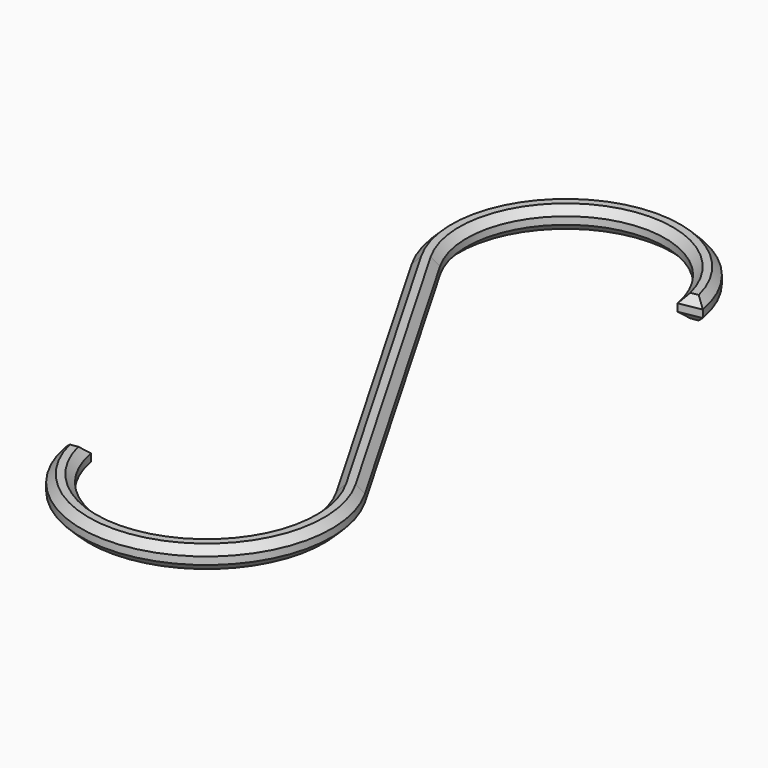
from build123d import *

# Parameters (mm, degrees)
F1_W    = 3
F1_H    = 3
F3_SIZE = 1


with BuildPart() as f2:
    # F2: sweep along a path in F0
    with BuildLine(Plane.XY) as f2_path:
        ThreePointArc((14.7721162952, 2.604722665), (-5.1303021499, 14.0953893118), (-12.9903810568, -7.5))
        Line((-12.9903810568, -7.5), (12.9903810568, -52.5))
        ThreePointArc((12.9903810568, -52.5), (5.1303021499, -74.0953893118), (-14.7721162952, -62.604722665))
    # F1 (on Front) → F2 (sweep)
    with BuildSketch(Plane.XZ):
        with Locations((-14.7721162952, 0)):
            Rectangle(F1_W, F1_H)
    sweep(path=f2_path.line)

    # F3
    f3_edges = [f2.edges().sort_by_distance(p)[0] for p in [
        (-4.539331, 12.47171, 1.5),
        (1.496391, -29.136058, 1.5),
        (5.721273, -75.719069, 1.5),
        (-14.996538, -62.644294, 1.5),
        (4.695213, -72.899991, 1.5),
        (-1.101685, -30.636058, 1.5),
        (-5.565392, 15.290788, 1.5),
        (14.547695, 2.565151, 1.5),
        (-5.565392, 15.290788, -1.5),
        (-1.101685, -30.636058, -1.5),
        (4.695213, -72.899991, -1.5),
        (-14.996538, -62.644294, -1.5),
        (5.721273, -75.719069, -1.5),
        (1.496391, -29.136058, -1.5),
        (-4.539331, 12.47171, -1.5),
        (14.547695, 2.565151, -1.5),
    ]]
    chamfer(f3_edges, length=F3_SIZE)


solid = f2.part
